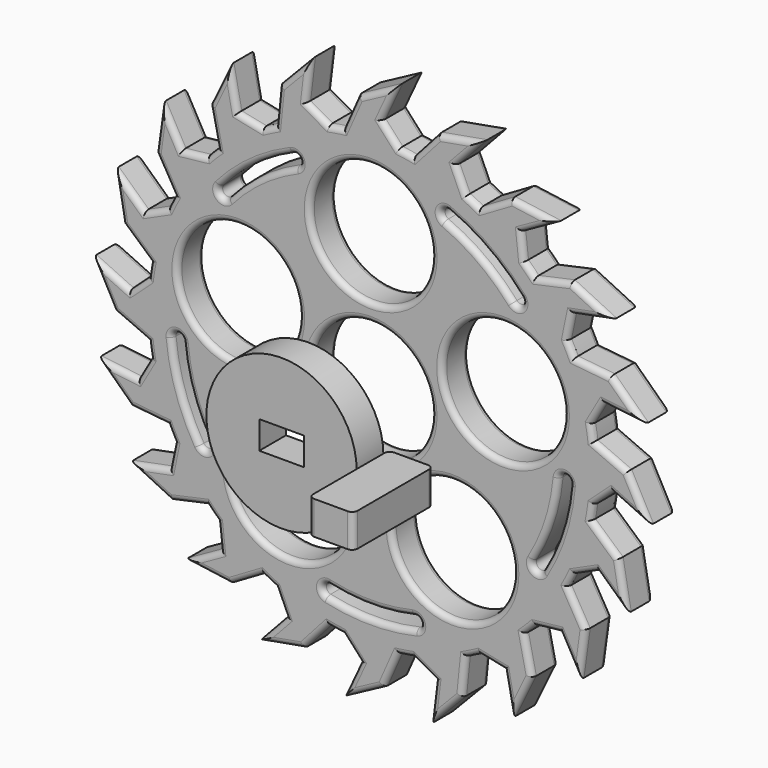
from build123d import *

# Parameters (mm, degrees)
F0_R     = 10.925
F1_DEPTH = 6
F2_R     = 1
F4_DEPTH = 6
F6_START = 20
F5_R     = 13.5
F5_W     = 8
F5_H     = 5
F6_DEPTH = 6


with BuildPart() as f1:
    # F0 (on Front) → F1 (new body)
    with BuildSketch(Plane.XZ):
        with BuildLine():
            Line((-2.3265427444, 46.078478992), (-5, 40))
            ThreePointArc((-5, 40), (-6.3060748894, 39.8149898843), (-7.6053971935, 39.5873456237))
            Line((-7.6053971935, 39.5873456237), (-11.5679447558, 41.8478534858))
            Line((-11.5679447558, 41.8478534858), (-10.6955671373, 49.0979107866))
            Line((-10.6955671373, 49.0979107866), (-16.451706721, 43.1042964601))
            Line((-16.451706721, 43.1042964601), (-17.1159623565, 36.4971756799))
            ThreePointArc((-17.1159623565, 36.4971756799), (-18.3009421209, 35.9176212671), (-19.4663251198, 35.2996060365))
            Line((-19.4663251198, 35.2996060365), (-23.9334671454, 36.2249822311))
            Line((-23.9334671454, 36.2249822311), (-25.3441776427, 43.3897759802))
            Line((-25.3441776427, 43.3897759802), (-28.9664630179, 35.9107650655))
            Line((-28.9664630179, 35.9107650655), (-27.5564950636, 29.4217535135))
            ThreePointArc((-27.5564950636, 29.4217535135), (-28.5043856275, 28.5043856275), (-29.4217535135, 27.5564950636))
            Line((-29.4217535135, 27.5564950636), (-33.9562150165, 27.0561573213))
            Line((-33.9562150165, 27.0561573213), (-37.5119234573, 33.4343475865))
            Line((-37.5119234573, 33.4343475865), (-38.6457800935, 25.2020377812))
            Line((-38.6457800935, 25.2020377812), (-35.2996060365, 19.4663251198))
            ThreePointArc((-35.2996060365, 19.4663251198), (-35.9176212671, 18.3009421209), (-36.4971756799, 17.1159623565))
            Line((-36.4971756799, 17.1159623565), (-40.6550919749, 15.2388872216))
            Line((-40.6550919749, 15.2388872216), (-46.0077408429, 20.2061323002))
            Line((-46.0077408429, 20.2061323002), (-44.5421789525, 12.026359446))
            Line((-44.5421789525, 12.026359446), (-39.5873456237, 7.6053971935))
            ThreePointArc((-39.5873456237, 7.6053971935), (-39.8149898843, 6.3060748894), (-40, 5))
            Line((-40, 5), (-43.3743652701, 1.929928665))
            Line((-43.3743652701, 1.929928665), (-50, 5))
            Line((-50, 5), (-46.078478992, -2.3265427444))
            Line((-46.078478992, -2.3265427444), (-40, -5))
            ThreePointArc((-40, -5), (-39.8149898843, -6.3060748894), (-39.5873456237, -7.6053971935))
            Line((-39.5873456237, -7.6053971935), (-41.8478534858, -11.5679447558))
            Line((-41.8478534858, -11.5679447558), (-49.0979107866, -10.6955671373))
            Line((-49.0979107866, -10.6955671373), (-43.1042964601, -16.451706721))
            Line((-43.1042964601, -16.451706721), (-36.4971756799, -17.1159623565))
            ThreePointArc((-36.4971756799, -17.1159623565), (-35.9176212671, -18.3009421209), (-35.2996060365, -19.4663251198))
            Line((-35.2996060365, -19.4663251198), (-36.2249822311, -23.9334671454))
            Line((-36.2249822311, -23.9334671454), (-43.3897759802, -25.3441776427))
            Line((-43.3897759802, -25.3441776427), (-35.9107650655, -28.9664630179))
            Line((-35.9107650655, -28.9664630179), (-29.4217535135, -27.5564950636))
            ThreePointArc((-29.4217535135, -27.5564950636), (-28.5043856275, -28.5043856275), (-27.5564950636, -29.4217535135))
            Line((-27.5564950636, -29.4217535135), (-27.0561573213, -33.9562150165))
            Line((-27.0561573213, -33.9562150165), (-33.4343475865, -37.5119234573))
            Line((-33.4343475865, -37.5119234573), (-25.2020377812, -38.6457800935))
            Line((-25.2020377812, -38.6457800935), (-19.4663251198, -35.2996060365))
            ThreePointArc((-19.4663251198, -35.2996060365), (-18.3009421209, -35.9176212671), (-17.1159623565, -36.4971756799))
            Line((-17.1159623565, -36.4971756799), (-15.2388872216, -40.6550919749))
            Line((-15.2388872216, -40.6550919749), (-20.2061323002, -46.0077408429))
            Line((-20.2061323002, -46.0077408429), (-12.026359446, -44.5421789525))
            Line((-12.026359446, -44.5421789525), (-7.6053971935, -39.5873456237))
            ThreePointArc((-7.6053971935, -39.5873456237), (-6.3060748894, -39.8149898843), (-5, -40))
            Line((-5, -40), (-1.929928665, -43.3743652701))
            Line((-1.929928665, -43.3743652701), (-5, -50))
            Line((-5, -50), (2.3265427444, -46.078478992))
            Line((2.3265427444, -46.078478992), (5, -40))
            ThreePointArc((5, -40), (6.3060748894, -39.8149898843), (7.6053971935, -39.5873456237))
            Line((7.6053971935, -39.5873456237), (11.5679447558, -41.8478534858))
            Line((11.5679447558, -41.8478534858), (10.6955671373, -49.0979107866))
            Line((10.6955671373, -49.0979107866), (16.451706721, -43.1042964601))
            Line((16.451706721, -43.1042964601), (17.1159623565, -36.4971756799))
            ThreePointArc((17.1159623565, -36.4971756799), (18.3009421209, -35.9176212671), (19.4663251198, -35.2996060365))
            Line((19.4663251198, -35.2996060365), (23.9334671454, -36.2249822311))
            Line((23.9334671454, -36.2249822311), (25.3441776427, -43.3897759802))
            Line((25.3441776427, -43.3897759802), (28.9664630179, -35.9107650655))
            Line((28.9664630179, -35.9107650655), (27.5564950636, -29.4217535135))
            ThreePointArc((27.5564950636, -29.4217535135), (28.5043856275, -28.5043856275), (29.4217535135, -27.5564950636))
            Line((29.4217535135, -27.5564950636), (33.9562150165, -27.0561573213))
            Line((33.9562150165, -27.0561573213), (37.5119234573, -33.4343475865))
            Line((37.5119234573, -33.4343475865), (38.6457800935, -25.2020377812))
            Line((38.6457800935, -25.2020377812), (35.2996060365, -19.4663251198))
            ThreePointArc((35.2996060365, -19.4663251198), (35.9176212671, -18.3009421209), (36.4971756799, -17.1159623565))
            Line((36.4971756799, -17.1159623565), (40.6550919749, -15.2388872216))
            Line((40.6550919749, -15.2388872216), (46.0077408429, -20.2061323002))
            Line((46.0077408429, -20.2061323002), (44.5421789525, -12.026359446))
            Line((44.5421789525, -12.026359446), (39.5873456237, -7.6053971935))
            ThreePointArc((39.5873456237, -7.6053971935), (39.8149898843, -6.3060748894), (40, -5))
            Line((40, -5), (43.3743652701, -1.929928665))
            Line((43.3743652701, -1.929928665), (50, -5))
            Line((50, -5), (46.078478992, 2.3265427444))
            Line((46.078478992, 2.3265427444), (40, 5))
            ThreePointArc((40, 5), (39.8149898843, 6.3060748894), (39.5873456237, 7.6053971935))
            Line((39.5873456237, 7.6053971935), (41.8478534858, 11.5679447558))
            Line((41.8478534858, 11.5679447558), (49.0979107866, 10.6955671373))
            Line((49.0979107866, 10.6955671373), (43.1042964601, 16.451706721))
            Line((43.1042964601, 16.451706721), (36.4971756799, 17.1159623565))
            ThreePointArc((36.4971756799, 17.1159623565), (35.9176212671, 18.3009421209), (35.2996060365, 19.4663251198))
            Line((35.2996060365, 19.4663251198), (36.2249822311, 23.9334671454))
            Line((36.2249822311, 23.9334671454), (43.3897759802, 25.3441776427))
            Line((43.3897759802, 25.3441776427), (35.9107650655, 28.9664630179))
            Line((35.9107650655, 28.9664630179), (29.4217535135, 27.5564950636))
            ThreePointArc((29.4217535135, 27.5564950636), (28.5043856275, 28.5043856275), (27.5564950636, 29.4217535135))
            Line((27.5564950636, 29.4217535135), (27.0561573213, 33.9562150165))
            Line((27.0561573213, 33.9562150165), (33.4343475865, 37.5119234573))
            Line((33.4343475865, 37.5119234573), (25.2020377812, 38.6457800935))
            Line((25.2020377812, 38.6457800935), (19.4663251198, 35.2996060365))
            ThreePointArc((19.4663251198, 35.2996060365), (18.3009421209, 35.9176212671), (17.1159623565, 36.4971756799))
            Line((17.1159623565, 36.4971756799), (15.2388872216, 40.6550919749))
            Line((15.2388872216, 40.6550919749), (20.2061323002, 46.0077408429))
            Line((20.2061323002, 46.0077408429), (12.026359446, 44.5421789525))
            Line((12.026359446, 44.5421789525), (7.6053971935, 39.5873456237))
            ThreePointArc((7.6053971935, 39.5873456237), (6.3060748894, 39.8149898843), (5, 40))
            Line((5, 40), (1.929928665, 43.3743652701))
            Line((1.929928665, 43.3743652701), (5, 50))
            Line((5, 50), (-2.3265427444, 46.078478992))
        make_face()
        with BuildLine():
            ThreePointArc((-30.7323442939, -18.5343739757), (-34.1040660312, -11.1764343424), (-35.7412522457, -3.2500603656))
            ThreePointArc((-35.7412522457, -3.2500603656), (-34.8359205805, -2.1636099176), (-33.7494701325, -3.0689415828))
            ThreePointArc((-33.7494701325, -3.0689415828), (-32.2035207385, -10.5535960081), (-29.0196977072, -17.5014936974))
            ThreePointArc((-29.0196977072, -17.5014936974), (-29.3595808615, -18.8742571299), (-30.7323442939, -18.5343739757))
        make_face(mode=Mode.SUBTRACT)
        with Locations((-14.6946313073, -20.2254248594)):
            Circle(F0_R, mode=Mode.SUBTRACT)
        with BuildLine():
            ThreePointArc((8.1304204812, -34.9556328403), (0.0906847293, -35.8886023794), (-7.9536632551, -34.9962747345))
            ThreePointArc((-7.9536632551, -34.9962747345), (-8.7071761632, -33.7995215029), (-7.5104229317, -33.0460085948))
            ThreePointArc((-7.5104229317, -33.0460085948), (0.085631067, -33.8886087643), (7.6773298627, -33.0076315848))
            ThreePointArc((7.6773298627, -33.0076315848), (8.8778757997, -33.7550869033), (8.1304204812, -34.9556328403))
        make_face(mode=Mode.SUBTRACT)
        with Locations((14.6946313073, -20.2254248594)):
            Circle(F0_R, mode=Mode.SUBTRACT)
        with BuildLine():
            ThreePointArc((35.7572204941, -3.0693952179), (34.1601122762, -11.0039417368), (30.8256180189, -18.3788269))
            ThreePointArc((30.8256180189, -18.3788269), (29.4545897656, -18.7256431747), (29.1077734908, -17.3546149213))
            ThreePointArc((29.1077734908, -17.3546149213), (32.2564436484, -10.3907160397), (33.7645485052, -2.8983445101))
            ThreePointArc((33.7645485052, -2.8983445101), (34.8464098536, -1.9875338696), (35.7572204941, -3.0693952179))
        make_face(mode=Mode.SUBTRACT)
        with Locations((-23.7764129074, 7.7254248594)):
            Circle(F0_R, mode=Mode.SUBTRACT)
        with BuildLine():
            ThreePointArc((-27.1240538088, 23.5007597632), (-21.1681566912, 28.9811860828), (-14.1356454332, 32.9876269631))
            ThreePointArc((-14.1356454332, 32.9876269631), (-12.8226067849, 32.4623370355), (-13.3478967125, 31.1492983872))
            ThreePointArc((-13.3478967125, 31.1492983872), (-19.9885014408, 27.3661277278), (-25.612489389, 22.1911136259))
            ThreePointArc((-25.612489389, 22.1911136259), (-27.0230946675, 22.0901544846), (-27.1240538088, 23.5007597632))
        make_face(mode=Mode.SUBTRACT)
        Circle(F0_R, mode=Mode.SUBTRACT)
        with Locations((23.7764129074, 7.7254248594)):
            Circle(F0_R, mode=Mode.SUBTRACT)
        with Locations((0, 25)):
            Circle(F0_R, mode=Mode.SUBTRACT)
        with BuildLine():
            ThreePointArc((13.9687571274, 33.0586422707), (21.0214257169, 29.0877923758), (27.004942915, 23.637535037))
            ThreePointArc((27.004942915, 23.637535037), (26.911113763, 22.2264375597), (25.5000162858, 22.3202667118))
            ThreePointArc((25.5000162858, 22.3202667118), (19.849947464, 27.4667930844), (13.1903087283, 31.2163561665))
            ThreePointArc((13.1903087283, 31.2163561665), (12.6583898757, 32.5267234181), (13.9687571274, 33.0586422707))
        make_face(mode=Mode.SUBTRACT)
    extrude(amount=F1_DEPTH)

    # F2
    f2_edges = [f1.edges().sort_by_distance(p)[0] for p in [
        (28.504386, -6, -28.504386),
        (31.688984, -6, -27.306326),
        (35.734069, -6, -30.245252),
        (38.078852, -6, -29.318193),
        (36.972693, -6, -22.334181),
        (35.917621, -6, -18.300942),
        (38.576134, -6, -16.177425),
        (43.331416, -6, -17.72251),
        (45.27496, -6, -16.116246),
        (42.064762, -6, -9.815878),
        (39.81499, -6, -6.306075),
        (41.687183, -6, -3.464964),
        (46.687183, -6, -3.464964),
        (48.039239, -6, -1.336729),
        (43.039239, -6, 3.663271),
        (39.81499, -6, 6.306075),
        (40.7176, -6, 9.586671),
        (45.472882, -6, 11.131756),
        (46.101104, -6, 13.573637),
        (39.800736, -6, 16.783835),
        (35.917621, -6, 18.300942),
        (35.762294, -6, 21.699896),
        (39.807379, -6, 24.638822),
        (39.650271, -6, 27.15532),
        (32.666259, -6, 28.261479),
        (28.504386, -6, 28.504386),
        (27.306326, -6, 31.688984),
        (30.245252, -6, 35.734069),
        (29.318193, -6, 38.078852),
        (22.334181, -6, 36.972693),
        (18.300942, -6, 35.917621),
        (16.177425, -6, 38.576134),
        (17.72251, -6, 43.331416),
        (16.116246, -6, 45.27496),
        (9.815878, -6, 42.064762),
        (6.306075, -6, 39.81499),
        (3.464964, -6, 41.687183),
        (3.464964, -6, 46.687183),
        (1.336729, -6, 48.039239),
        (-3.663271, -6, 43.039239),
        (-6.306075, -6, 39.81499),
        (-9.586671, -6, 40.7176),
        (-11.131756, -6, 45.472882),
        (-13.573637, -6, 46.101104),
        (-16.783835, -6, 39.800736),
        (-18.300942, -6, 35.917621),
        (-21.699896, -6, 35.762294),
        (-24.638822, -6, 39.807379),
        (-27.15532, -6, 39.650271),
        (-28.261479, -6, 32.666259),
        (-28.504386, -6, 28.504386),
        (-31.688984, -6, 27.306326),
        (-35.734069, -6, 30.245252),
        (-38.078852, -6, 29.318193),
        (-36.972693, -6, 22.334181),
        (-35.917621, -6, 18.300942),
        (-38.576134, -6, 16.177425),
        (-43.331416, -6, 17.72251),
        (-45.27496, -6, 16.116246),
        (-42.064762, -6, 9.815878),
        (-39.81499, -6, 6.306075),
        (-41.687183, -6, 3.464964),
        (-46.687183, -6, 3.464964),
        (-48.039239, -6, 1.336729),
        (-43.039239, -6, -3.663271),
        (-39.81499, -6, -6.306075),
        (-40.7176, -6, -9.586671),
        (-45.472882, -6, -11.131756),
        (-46.101104, -6, -13.573637),
        (-39.800736, -6, -16.783835),
        (-35.917621, -6, -18.300942),
        (-35.762294, -6, -21.699896),
        (-39.807379, -6, -24.638822),
        (-39.650271, -6, -27.15532),
        (-32.666259, -6, -28.261479),
        (-28.504386, -6, -28.504386),
        (-27.306326, -6, -31.688984),
        (-30.245252, -6, -35.734069),
        (-29.318193, -6, -38.078852),
        (-22.334181, -6, -36.972693),
        (-18.300942, -6, -35.917621),
        (-16.177425, -6, -38.576134),
        (-17.72251, -6, -43.331416),
        (-16.116246, -6, -45.27496),
        (-9.815878, -6, -42.064762),
        (-6.306075, -6, -39.81499),
        (-3.464964, -6, -41.687183),
        (-3.464964, -6, -46.687183),
        (-1.336729, -6, -48.039239),
        (3.663271, -6, -43.039239),
        (6.306075, -6, -39.81499),
        (9.586671, -6, -40.7176),
        (11.131756, -6, -45.472882),
        (13.573637, -6, -46.101104),
        (16.783835, -6, -39.800736),
        (18.300942, -6, -35.917621),
        (21.699896, -6, -35.762294),
        (24.638822, -6, -39.807379),
        (27.15532, -6, -39.650271),
        (28.261479, -6, -32.666259),
        (-34.104066, -6, -11.176434),
        (-34.835921, -6, -2.16361),
        (-32.203521, -6, -10.553596),
        (-29.359581, -6, -18.874257),
        (-25.619631, -6, -20.225425),
        (8.877876, -6, -33.755087),
        (0.090685, -6, -35.888602),
        (-8.707176, -6, -33.799522),
        (0.085631, -6, -33.888609),
        (3.769631, -6, -20.225425),
        (32.256444, -6, -10.390716),
        (34.84641, -6, -1.987534),
        (34.160112, -6, -11.003942),
        (29.45459, -6, -18.725643),
        (-34.701413, -6, 7.725425),
        (-19.988501, -6, 27.366128),
        (-27.023095, -6, 22.090154),
        (-21.168157, -6, 28.981186),
        (-12.822607, -6, 32.462337),
        (-10.925, -6, 0),
        (12.851413, -6, 7.725425),
        (-10.925, -6, 25),
        (26.911114, -6, 22.226438),
        (19.849947, -6, 27.466793),
        (12.65839, -6, 32.526723),
        (21.021426, -6, 29.087792),
        (28.504386, 0, -28.504386),
        (31.688984, 0, -27.306326),
        (35.734069, 0, -30.245252),
        (38.078852, 0, -29.318193),
        (36.972693, 0, -22.334181),
        (35.917621, 0, -18.300942),
        (38.576134, 0, -16.177425),
        (43.331416, 0, -17.72251),
        (45.27496, 0, -16.116246),
        (42.064762, 0, -9.815878),
        (39.81499, 0, -6.306075),
        (41.687183, 0, -3.464964),
        (46.687183, 0, -3.464964),
        (48.039239, 0, -1.336729),
        (43.039239, 0, 3.663271),
        (39.81499, 0, 6.306075),
        (40.7176, 0, 9.586671),
        (45.472882, 0, 11.131756),
        (46.101104, 0, 13.573637),
        (39.800736, 0, 16.783835),
        (35.917621, 0, 18.300942),
        (35.762294, 0, 21.699896),
        (39.807379, 0, 24.638822),
        (39.650271, 0, 27.15532),
        (32.666259, 0, 28.261479),
        (28.504386, 0, 28.504386),
        (27.306326, 0, 31.688984),
        (30.245252, 0, 35.734069),
        (29.318193, 0, 38.078852),
        (22.334181, 0, 36.972693),
        (18.300942, 0, 35.917621),
        (16.177425, 0, 38.576134),
        (17.72251, 0, 43.331416),
        (16.116246, 0, 45.27496),
        (9.815878, 0, 42.064762),
        (6.306075, 0, 39.81499),
        (3.464964, 0, 41.687183),
        (3.464964, 0, 46.687183),
        (1.336729, 0, 48.039239),
        (-3.663271, 0, 43.039239),
        (-6.306075, 0, 39.81499),
        (-9.586671, 0, 40.7176),
        (-11.131756, 0, 45.472882),
        (-13.573637, 0, 46.101104),
        (-16.783835, 0, 39.800736),
        (-18.300942, 0, 35.917621),
        (-21.699896, 0, 35.762294),
        (-24.638822, 0, 39.807379),
        (-27.15532, 0, 39.650271),
        (-28.261479, 0, 32.666259),
        (-28.504386, 0, 28.504386),
        (-31.688984, 0, 27.306326),
        (-35.734069, 0, 30.245252),
        (-38.078852, 0, 29.318193),
        (-36.972693, 0, 22.334181),
        (-35.917621, 0, 18.300942),
        (-38.576134, 0, 16.177425),
        (-43.331416, 0, 17.72251),
        (-45.27496, 0, 16.116246),
        (-42.064762, 0, 9.815878),
        (-39.81499, 0, 6.306075),
        (-41.687183, 0, 3.464964),
        (-46.687183, 0, 3.464964),
        (-48.039239, 0, 1.336729),
        (-43.039239, 0, -3.663271),
        (-39.81499, 0, -6.306075),
        (-40.7176, 0, -9.586671),
        (-45.472882, 0, -11.131756),
        (-46.101104, 0, -13.573637),
        (-39.800736, 0, -16.783835),
        (-35.917621, 0, -18.300942),
        (-35.762294, 0, -21.699896),
        (-39.807379, 0, -24.638822),
        (-39.650271, 0, -27.15532),
        (-32.666259, 0, -28.261479),
        (-28.504386, 0, -28.504386),
        (-27.306326, 0, -31.688984),
        (-30.245252, 0, -35.734069),
        (-29.318193, 0, -38.078852),
        (-22.334181, 0, -36.972693),
        (-18.300942, 0, -35.917621),
        (-16.177425, 0, -38.576134),
        (-17.72251, 0, -43.331416),
        (-16.116246, 0, -45.27496),
        (-9.815878, 0, -42.064762),
        (-6.306075, 0, -39.81499),
        (-3.464964, 0, -41.687183),
        (-3.464964, 0, -46.687183),
        (-1.336729, 0, -48.039239),
        (3.663271, 0, -43.039239),
        (6.306075, 0, -39.81499),
        (9.586671, 0, -40.7176),
        (11.131756, 0, -45.472882),
        (13.573637, 0, -46.101104),
        (16.783835, 0, -39.800736),
        (18.300942, 0, -35.917621),
        (21.699896, 0, -35.762294),
        (24.638822, 0, -39.807379),
        (27.15532, 0, -39.650271),
        (28.261479, 0, -32.666259),
        (-34.104066, 0, -11.176434),
        (-34.835921, 0, -2.16361),
        (-32.203521, 0, -10.553596),
        (-29.359581, 0, -18.874257),
        (-25.619631, 0, -20.225425),
        (8.877876, 0, -33.755087),
        (0.090685, 0, -35.888602),
        (-8.707176, 0, -33.799522),
        (0.085631, 0, -33.888609),
        (3.769631, 0, -20.225425),
        (32.256444, 0, -10.390716),
        (34.84641, 0, -1.987534),
        (34.160112, 0, -11.003942),
        (29.45459, 0, -18.725643),
        (-34.701413, 0, 7.725425),
        (-19.988501, 0, 27.366128),
        (-27.023095, 0, 22.090154),
        (-21.168157, 0, 28.981186),
        (-12.822607, 0, 32.462337),
        (-10.925, 0, 0),
        (12.851413, 0, 7.725425),
        (-10.925, 0, 25),
        (26.911114, 0, 22.226438),
        (19.849947, 0, 27.466793),
        (12.65839, 0, 32.526723),
        (21.021426, 0, 29.087792),
    ]]
    fillet(f2_edges, radius=F2_R)


with BuildPart() as f4:
    # F3 (on Top) → F4 (new body)
    with BuildSketch(Plane.XY):
        with BuildLine():
            Line((27.347636193, -27.3550294042), (21.347636193, -27.3550294042))
            ThreePointArc((21.347636193, -27.3550294042), (20.6405294119, -27.647922623), (20.347636193, -28.3550294042))
            Line((20.347636193, -28.3550294042), (20.347636193, -44.3550294042))
            ThreePointArc((20.347636193, -44.3550294042), (20.6405294119, -45.0621361853), (21.347636193, -45.3550294042))
            Line((21.347636193, -45.3550294042), (27.347636193, -45.3550294042))
            ThreePointArc((27.347636193, -45.3550294042), (28.0547429742, -45.0621361853), (28.347636193, -44.3550294042))
            Line((28.347636193, -44.3550294042), (28.347636193, -28.3550294042))
            ThreePointArc((28.347636193, -28.3550294042), (28.0547429742, -27.647922623), (27.347636193, -27.3550294042))
        make_face()
    extrude(amount=F4_DEPTH)


with BuildPart() as f6:
    # F5 (on Front) → F6 (new body)
    with BuildSketch(Plane.XZ.offset(F6_START)):
        Circle(F5_R)
        Rectangle(F5_W, F5_H, mode=Mode.SUBTRACT)
    extrude(amount=F6_DEPTH)


solid = Compound([f1.part, f4.part, f6.part])
